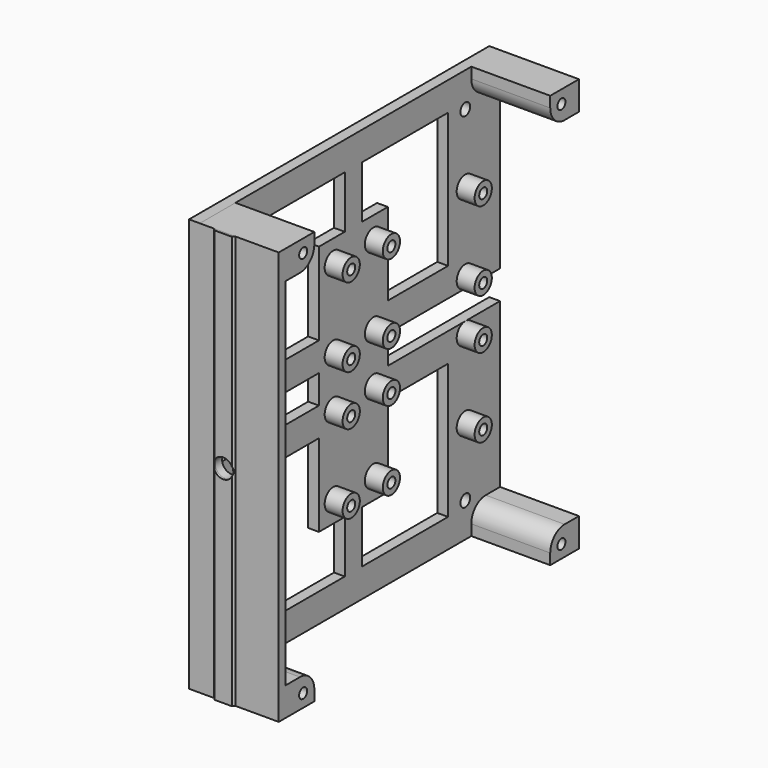
from build123d import *

# Parameters (mm, degrees)
SKETCH017_R          = 1.7
SKETCH017_W          = 39.1
SKETCH017_H          = 8
PAD006_DEPTH         = 3
SKETCH018_R          = 3
PAD007_DEPTH         = 5
SKETCH020_R          = 1.4
POCKET011_DEPTH      = 8.001
PAD008_DEPTH         = 22
SKETCH021_R          = 1.4
POCKET012_DEPTH      = 9
PAD009_DEPTH         = 115.2
SKETCH023_R          = 2.7
POCKET013_DEPTH      = 0.601
POCKET013_DEPTH_BACK = 104.601


with BuildPart() as part:
    # Sketch017 → Pad006 (new body)
    with BuildSketch(Plane.YZ):
        Polygon((0, 117.6), (104.6, 117.6), (104.6, 64), (65.5, 64), (65.5, 56), (104.6, 56), (104.6, 2.4), (0, 2.4), align=None)
        with Locations((14.5, 108)):
            Circle(SKETCH017_R, mode=Mode.SUBTRACT)
        with Locations((92.5, 108)):
            Circle(SKETCH017_R, mode=Mode.SUBTRACT)
        with Locations((92.5, 12)):
            Circle(SKETCH017_R, mode=Mode.SUBTRACT)
        with Locations((14.5, 12)):
            Circle(SKETCH017_R, mode=Mode.SUBTRACT)
        with Locations((21.95, 60)):
            Rectangle(SKETCH017_W, SKETCH017_H, mode=Mode.SUBTRACT)
        Polygon((86.5, 109.6), (86.5, 72), (65.5, 72), (65.5, 95), (56.5, 95), (56.5, 109.6), align=None, mode=Mode.SUBTRACT)
        Polygon((20.5, 72), (20.5, 109.6), (50.5, 109.6), (50.5, 95), (41.5, 95), (41.5, 72), align=None, mode=Mode.SUBTRACT)
        Polygon((86.5, 48), (86.5, 10.4), (56.5, 10.4), (56.5, 25), (65.5, 25), (65.5, 48), align=None, mode=Mode.SUBTRACT)
        Polygon((20.5, 10.4), (20.5, 48), (41.5, 48), (41.5, 25), (50.5, 25), (50.5, 10.4), align=None, mode=Mode.SUBTRACT)
    extrude(amount=PAD006_DEPTH)

    # Sketch018 → Pad007 (join)
    with BuildSketch(Plane.YZ.offset(3)):
        with Locations((14.5, 89)):
            Circle(SKETCH018_R)
        with Locations((46.5, 89)):
            Circle(SKETCH018_R)
        with Locations((60.5, 89)):
            Circle(SKETCH018_R)
        with Locations((92.5, 89)):
            Circle(SKETCH018_R)
        with Locations((92.5, 67)):
            Circle(SKETCH018_R)
        with Locations((60.5, 67)):
            Circle(SKETCH018_R)
        with Locations((46.5, 67)):
            Circle(SKETCH018_R)
        with Locations((14.5, 67)):
            Circle(SKETCH018_R)
        with Locations((14.5, 53)):
            Circle(SKETCH018_R)
        with Locations((46.5, 53)):
            Circle(SKETCH018_R)
        with Locations((60.5, 53)):
            Circle(SKETCH018_R)
        with Locations((92.5, 53)):
            Circle(SKETCH018_R)
        with Locations((92.5, 31)):
            Circle(SKETCH018_R)
        with Locations((60.5, 31)):
            Circle(SKETCH018_R)
        with Locations((46.5, 31)):
            Circle(SKETCH018_R)
        with Locations((14.5, 31)):
            Circle(SKETCH018_R)
    extrude(amount=PAD007_DEPTH)

    # Sketch020 → Pocket011 (cut, through all)
    with BuildSketch(Plane.YZ.offset(8)):
        with Locations((14.5, 89)):
            Circle(SKETCH020_R)
        with Locations((46.5, 89)):
            Circle(SKETCH020_R)
        with Locations((60.5, 89)):
            Circle(SKETCH020_R)
        with Locations((92.5, 89)):
            Circle(SKETCH020_R)
        with Locations((92.5, 67)):
            Circle(SKETCH020_R)
        with Locations((60.5, 67)):
            Circle(SKETCH020_R)
        with Locations((46.5, 67)):
            Circle(SKETCH020_R)
        with Locations((14.5, 67)):
            Circle(SKETCH020_R)
        with Locations((14.5, 53)):
            Circle(SKETCH020_R)
        with Locations((46.5, 53)):
            Circle(SKETCH020_R)
        with Locations((60.5, 53)):
            Circle(SKETCH020_R)
        with Locations((92.5, 53)):
            Circle(SKETCH020_R)
        with Locations((92.5, 31)):
            Circle(SKETCH020_R)
        with Locations((60.5, 31)):
            Circle(SKETCH020_R)
        with Locations((46.5, 31)):
            Circle(SKETCH020_R)
        with Locations((14.5, 31)):
            Circle(SKETCH020_R)
    extrude(amount=-POCKET011_DEPTH, mode=Mode.SUBTRACT)

    # Sketch019 → Pad008 (join)
    with BuildSketch(Plane.YZ.offset(3)):
        with BuildLine():
            ThreePointArc((94.6, 114.599982), (96.064466, 111.064448), (99.6, 109.599982))
            Line((104.6, 109.599982), (99.6, 109.599982))
            Line((104.6, 117.6), (104.6, 109.599982))
            Line((94.6, 117.6), (104.6, 117.6))
            Line((94.6, 114.599982), (94.6, 117.6))
        make_face()
        with BuildLine():
            ThreePointArc((99.6, 10.400018), (96.064473, 8.935559), (94.6, 5.400037))
            Line((94.6, 2.400018), (94.6, 5.400037))
            Line((104.6, 2.400018), (94.6, 2.400018))
            Line((104.6, 10.400018), (104.6, 2.400018))
            Line((99.6, 10.400018), (104.6, 10.400018))
        make_face()
        with BuildLine():
            ThreePointArc((7.4, 109.599982), (10.935527, 111.064441), (12.4, 114.599963))
            Line((12.4, 117.599982), (12.4, 114.599963))
            Line((0, 117.599982), (12.4, 117.599982))
            Line((0, 2.4), (0, 117.599982))
            Line((12.4, 2.4), (0, 2.4))
            Line((12.4, 5.400018), (12.4, 2.4))
            ThreePointArc((12.4, 5.400018), (10.935534, 8.935552), (7.4, 10.400018))
            Line((2.4, 10.400018), (7.4, 10.400018))
            Line((2.4, 109.599982), (2.4, 10.400018))
            Line((7.4, 109.599982), (2.4, 109.599982))
        make_face()
    extrude(amount=PAD008_DEPTH)

    # Sketch021 → Pocket012 (cut)
    with BuildSketch(Plane.YZ.offset(25)):
        with Locations((8.5, 114)):
            Circle(SKETCH021_R)
        with Locations((98.5, 114)):
            Circle(SKETCH021_R)
        with Locations((98.5, 6)):
            Circle(SKETCH021_R)
        with Locations((8.5, 6)):
            Circle(SKETCH021_R)
    extrude(amount=-POCKET012_DEPTH, mode=Mode.SUBTRACT)

    # Sketch022 → Pad009 (join)
    with BuildSketch(Plane.XY.offset(2.4)):
        Polygon((7, 0), (13, 0), (12.4, -0.6), (7.6, -0.6), align=None)
    extrude(amount=PAD009_DEPTH)

    # Sketch023 → Pocket013 (cut, two sides)
    with BuildSketch(Plane.XZ) as pocket013_sk:
        with Locations((10, 60)):
            Circle(SKETCH023_R)
    extrude(amount=POCKET013_DEPTH, mode=Mode.SUBTRACT)
    extrude(pocket013_sk.sketch, amount=-POCKET013_DEPTH_BACK, mode=Mode.SUBTRACT)


solid = part.part
